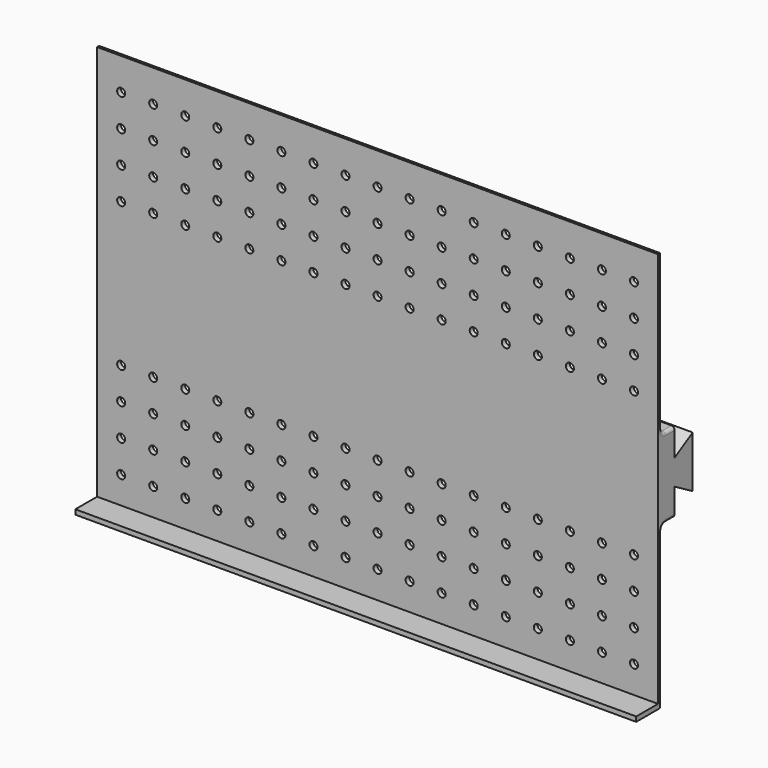
from build123d import *

# Parameters (mm, degrees)
F0_W     = 350
F0_H     = 250
F1_DEPTH = 20
F2_W     = 17
F2_H     = 247
F3_DEPTH = 350
F5_DEPTH = 175
F6_R     = 3
F7_R     = 2
F8_R     = 2.5
F9_DEPTH = 3


with BuildPart() as f1:
    # F0 (on Front) → F1 (new body)
    with BuildSketch(Plane.XZ):
        Rectangle(F0_W, F0_H)
    extrude(amount=F1_DEPTH)

    # F2 (on face) → F3 (cut, through all)
    with BuildSketch(Plane.YZ.offset(175)):
        with Locations((-11.5, 1.5)):
            Rectangle(F2_W, F2_H)
    extrude(amount=-F3_DEPTH, mode=Mode.SUBTRACT)

    # F4 (on Right) → F5 (join, symmetric)
    with BuildSketch(Plane.YZ):
        Polygon((10, 25), (0, 25), (0, -25), (10, -25), (10, -8), (24.038272, -16.105), (24.038272, 16.105), (10, 8), align=None)
    extrude(amount=F5_DEPTH, both=True)

    # F6
    f6_edges = [f1.edges().sort_by_distance(p)[0] for p in [
        (0, 0, 25),
        (0, 0, -25),
    ]]
    fillet(f6_edges, radius=F6_R)

    # F7
    f7_edges = [f1.edges().sort_by_distance(p)[0] for p in [
        (-175, 0, 76.5),
        (-175, 0, -76.5),
        (175, 0, 76.5),
        (175, 0, -76.5),
        (0, 0, -125),
        (0, 0, 125),
    ]]
    fillet(f7_edges, radius=F7_R)

    # F8 (on face) → F9 (cut, through all)
    with BuildSketch(Plane.XZ.offset(3)):
        with Locations((-160, 105)):
            Circle(F8_R)
        with Locations((-160, 85)):
            Circle(F8_R)
        with Locations((-160, 65)):
            Circle(F8_R)
        with Locations((-160, 45)):
            Circle(F8_R)
        with Locations((-140, 45)):
            Circle(F8_R)
        with Locations((-140, 65)):
            Circle(F8_R)
        with Locations((-140, 105)):
            Circle(F8_R)
        with Locations((-140, 85)):
            Circle(F8_R)
        with Locations((-120, 45)):
            Circle(F8_R)
        with Locations((-120, 65)):
            Circle(F8_R)
        with Locations((-120, 105)):
            Circle(F8_R)
        with Locations((-120, 85)):
            Circle(F8_R)
        with Locations((-100, 45)):
            Circle(F8_R)
        with Locations((-100, 65)):
            Circle(F8_R)
        with Locations((-100, 105)):
            Circle(F8_R)
        with Locations((-100, 85)):
            Circle(F8_R)
        with Locations((-80, 45)):
            Circle(F8_R)
        with Locations((-80, 65)):
            Circle(F8_R)
        with Locations((-80, 105)):
            Circle(F8_R)
        with Locations((-80, 85)):
            Circle(F8_R)
        with Locations((-60, 45)):
            Circle(F8_R)
        with Locations((-60, 65)):
            Circle(F8_R)
        with Locations((-60, 105)):
            Circle(F8_R)
        with Locations((-60, 85)):
            Circle(F8_R)
        with Locations((-40, 45)):
            Circle(F8_R)
        with Locations((-40, 65)):
            Circle(F8_R)
        with Locations((-40, 105)):
            Circle(F8_R)
        with Locations((-40, 85)):
            Circle(F8_R)
        with Locations((-20, 45)):
            Circle(F8_R)
        with Locations((-20, 65)):
            Circle(F8_R)
        with Locations((-20, 105)):
            Circle(F8_R)
        with Locations((-20, 85)):
            Circle(F8_R)
        with Locations((0, 45)):
            Circle(F8_R)
        with Locations((0, 65)):
            Circle(F8_R)
        with Locations((0, 105)):
            Circle(F8_R)
        with Locations((0, 85)):
            Circle(F8_R)
        with Locations((20, 45)):
            Circle(F8_R)
        with Locations((20, 65)):
            Circle(F8_R)
        with Locations((20, 105)):
            Circle(F8_R)
        with Locations((20, 85)):
            Circle(F8_R)
        with Locations((40, 45)):
            Circle(F8_R)
        with Locations((40, 65)):
            Circle(F8_R)
        with Locations((40, 105)):
            Circle(F8_R)
        with Locations((40, 85)):
            Circle(F8_R)
        with Locations((60, 45)):
            Circle(F8_R)
        with Locations((60, 65)):
            Circle(F8_R)
        with Locations((60, 105)):
            Circle(F8_R)
        with Locations((60, 85)):
            Circle(F8_R)
        with Locations((80, 45)):
            Circle(F8_R)
        with Locations((80, 65)):
            Circle(F8_R)
        with Locations((80, 105)):
            Circle(F8_R)
        with Locations((80, 85)):
            Circle(F8_R)
        with Locations((100, 45)):
            Circle(F8_R)
        with Locations((100, 65)):
            Circle(F8_R)
        with Locations((100, 105)):
            Circle(F8_R)
        with Locations((100, 85)):
            Circle(F8_R)
        with Locations((120, 45)):
            Circle(F8_R)
        with Locations((120, 65)):
            Circle(F8_R)
        with Locations((120, 105)):
            Circle(F8_R)
        with Locations((120, 85)):
            Circle(F8_R)
        with Locations((140, 45)):
            Circle(F8_R)
        with Locations((140, 65)):
            Circle(F8_R)
        with Locations((140, 105)):
            Circle(F8_R)
        with Locations((140, 85)):
            Circle(F8_R)
        with Locations((160, 45)):
            Circle(F8_R)
        with Locations((160, 65)):
            Circle(F8_R)
        with Locations((160, 105)):
            Circle(F8_R)
        with Locations((160, 85)):
            Circle(F8_R)
        with Locations((-140, -45)):
            Circle(F8_R)
        with Locations((-160, -45)):
            Circle(F8_R)
        with Locations((-120, -45)):
            Circle(F8_R)
        with Locations((20, -85)):
            Circle(F8_R)
        with Locations((120, -45)):
            Circle(F8_R)
        with Locations((40, -45)):
            Circle(F8_R)
        with Locations((-40, -45)):
            Circle(F8_R)
        with Locations((-140, -85)):
            Circle(F8_R)
        with Locations((100, -85)):
            Circle(F8_R)
        with Locations((80, -85)):
            Circle(F8_R)
        with Locations((0, -85)):
            Circle(F8_R)
        with Locations((-120, -85)):
            Circle(F8_R)
        with Locations((-80, -85)):
            Circle(F8_R)
        with Locations((160, -85)):
            Circle(F8_R)
        with Locations((-140, -105)):
            Circle(F8_R)
        with Locations((-140, -65)):
            Circle(F8_R)
        with Locations((-100, -45)):
            Circle(F8_R)
        with Locations((140, -45)):
            Circle(F8_R)
        with Locations((100, -65)):
            Circle(F8_R)
        with Locations((60, -45)):
            Circle(F8_R)
        with Locations((20, -65)):
            Circle(F8_R)
        with Locations((-20, -45)):
            Circle(F8_R)
        with Locations((-60, -65)):
            Circle(F8_R)
        with Locations((60, -105)):
            Circle(F8_R)
        with Locations((-20, -105)):
            Circle(F8_R)
        with Locations((160, -105)):
            Circle(F8_R)
        with Locations((-60, -45)):
            Circle(F8_R)
        with Locations((-100, -85)):
            Circle(F8_R)
        with Locations((-120, -65)):
            Circle(F8_R)
        with Locations((140, -105)):
            Circle(F8_R)
        with Locations((-40, -65)):
            Circle(F8_R)
        with Locations((0, -45)):
            Circle(F8_R)
        with Locations((20, -45)):
            Circle(F8_R)
        with Locations((80, -65)):
            Circle(F8_R)
        with Locations((120, -65)):
            Circle(F8_R)
        with Locations((100, -105)):
            Circle(F8_R)
        with Locations((-160, -105)):
            Circle(F8_R)
        with Locations((-60, -105)):
            Circle(F8_R)
        with Locations((40, -65)):
            Circle(F8_R)
        with Locations((0, -65)):
            Circle(F8_R)
        with Locations((-40, -85)):
            Circle(F8_R)
        with Locations((60, -65)):
            Circle(F8_R)
        with Locations((-120, -105)):
            Circle(F8_R)
        with Locations((40, -85)):
            Circle(F8_R)
        with Locations((0, -105)):
            Circle(F8_R)
        with Locations((80, -45)):
            Circle(F8_R)
        with Locations((140, -65)):
            Circle(F8_R)
        with Locations((-40, -105)):
            Circle(F8_R)
        with Locations((-160, -65)):
            Circle(F8_R)
        with Locations((-100, -105)):
            Circle(F8_R)
        with Locations((160, -65)):
            Circle(F8_R)
        with Locations((-80, -65)):
            Circle(F8_R)
        with Locations((100, -45)):
            Circle(F8_R)
        with Locations((-20, -85)):
            Circle(F8_R)
        with Locations((-80, -45)):
            Circle(F8_R)
        with Locations((-20, -65)):
            Circle(F8_R)
        with Locations((-100, -65)):
            Circle(F8_R)
        with Locations((120, -105)):
            Circle(F8_R)
        with Locations((-160, -85)):
            Circle(F8_R)
        with Locations((80, -105)):
            Circle(F8_R)
        with Locations((60, -85)):
            Circle(F8_R)
        with Locations((120, -85)):
            Circle(F8_R)
        with Locations((-60, -85)):
            Circle(F8_R)
        with Locations((160, -45)):
            Circle(F8_R)
        with Locations((20, -105)):
            Circle(F8_R)
        with Locations((-80, -105)):
            Circle(F8_R)
        with Locations((140, -85)):
            Circle(F8_R)
        with Locations((40, -105)):
            Circle(F8_R)
    extrude(amount=-F9_DEPTH, mode=Mode.SUBTRACT)


solid = f1.part
